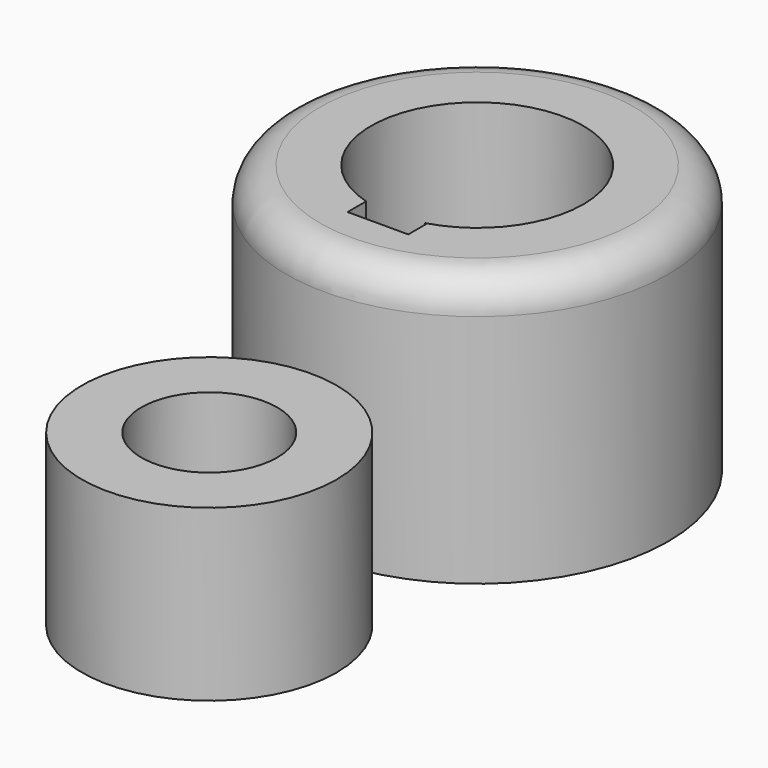
from build123d import *

# Parameters (mm, degrees)
F0_R     = 28.575
F1_DEPTH = 40.2336
F2_R     = 5.08
F4_DEPTH = 50.8
F5_W     = 9.066426
F5_H     = 3.466468
F6_DEPTH = 50.8
F7_R     = 19.05
F7_R_2   = 10.16
F8_DEPTH = 25.4


with BuildPart() as f1:
    # F0 (on Top) → F1 (new body)
    with BuildSketch(Plane.XY):
        with Locations((0, 54.467562)):
            Circle(F0_R)
    extrude(amount=F1_DEPTH)

    # F2
    f2_edges = [f1.edges().sort_by_distance(p)[0] for p in [
        (-28.575, 54.467562, 40.2336),
    ]]
    fillet(f2_edges, radius=F2_R)

    # F3 (on face) → F4 (cut)
    with BuildSketch(Plane.XY.offset(40.2336)):
        with BuildLine():
            ThreePointArc((4.405142, 39.215993), (12.687538, 44.925969), (15.875, 54.467562))
            ThreePointArc((15.875, 54.467562), (-9.541593, 67.1551), (-4.405142, 39.215993))
            Line((-4.405142, 39.215993), (4.405142, 39.215993))
        make_face()
    extrude(amount=-F4_DEPTH, mode=Mode.SUBTRACT)

    # F5 (on face) → F6 (cut)
    with BuildSketch(Plane.XY.offset(40.2336)):
        with Locations((0.128071, 37.482759)):
            Rectangle(F5_W, F5_H)
    extrude(amount=-F6_DEPTH, mode=Mode.SUBTRACT)


with BuildPart() as f8:
    # F7 (on Top) → F8 (new body)
    with BuildSketch(Plane.XY):
        with Locations((0, 4.396227)):
            Circle(F7_R)
        with Locations((0, 4.396227)):
            Circle(F7_R_2, mode=Mode.SUBTRACT)
    extrude(amount=F8_DEPTH)


solid = Compound([f1.part, f8.part])
